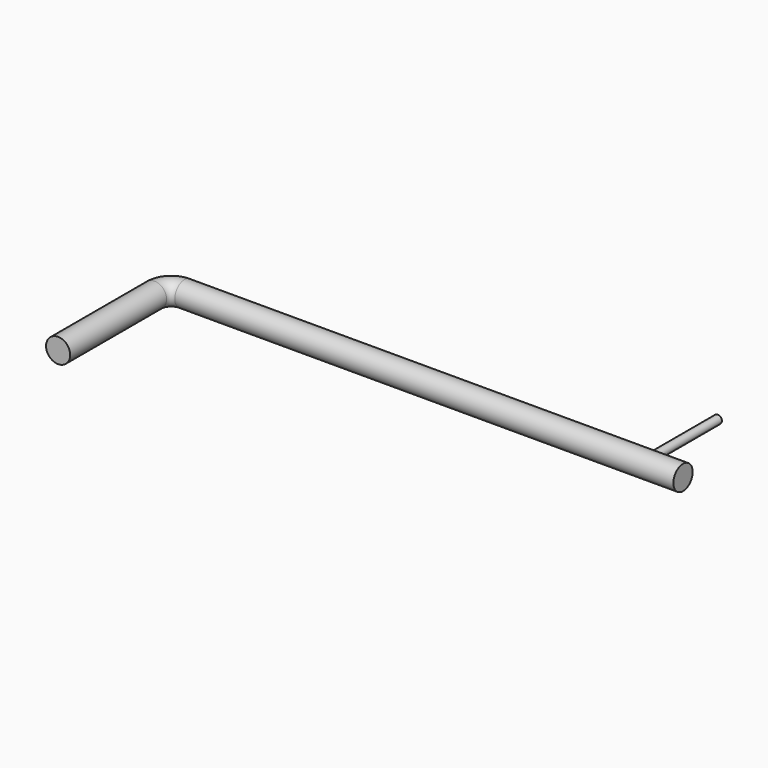
from build123d import *

# Parameters (mm, degrees)
F2_R = 1.45
F5_R = 0.5


with BuildPart() as f3:
    # F3: sweep along a path in F1
    with BuildLine(Plane.XY) as f3_path:
        Line((-13.94975, 0), (-73.94975, 0))
        ThreePointArc((-73.94975, 0), (-75.3639635624, -0.5857864376), (-75.94975, -2))
        Line((-75.94975, -2), (-75.94975, -16.5))
    # F2 (on offset) → F3 (sweep)
    with BuildSketch(Plane.XZ.offset(16.5)):
        with Locations((-75.94975, 0)):
            Circle(F2_R)
    sweep(path=f3_path.line)

    # F5 (on offset) → F6 (join, up to the next surface of F3)
    with BuildSketch(Plane.XZ.offset(-11.28)):
        with Locations((-18.79075, 0)):
            Circle(F5_R)
    extrude(until=Until.NEXT)


solid = f3.part
